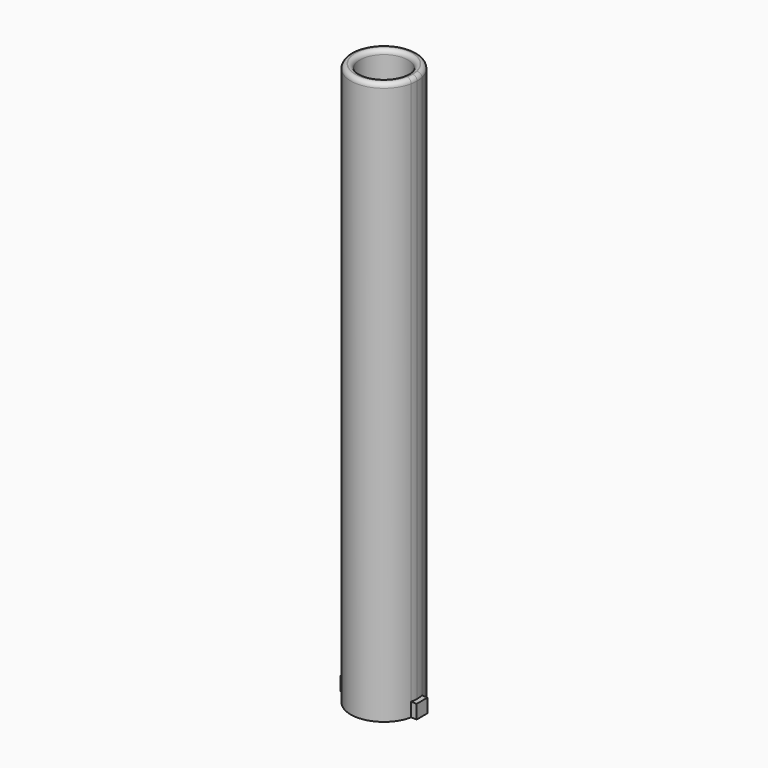
from build123d import *

# Parameters (mm, degrees)
F0_R     = 8.65
F1_DEPTH = 203.2
F2_R     = 1.6
F3_DEPTH = 5


with BuildPart() as f1:
    # F0 (on Top) → F1 (new body)
    with BuildSketch(Plane.XY):
        with BuildLine():
            Line((11.736521, -2.426381), (11.736521, 2.500816))
            ThreePointArc((11.736521, 2.500816), (0, 12), (-11.736521, 2.500816))
            Line((-11.736521, 2.500816), (-11.736521, -2.426381))
            Line((-11.736521, -2.426381), (-11.752135, -2.426381))
            ThreePointArc((-11.752135, -2.426381), (0, -12), (11.752135, -2.426381))
            Line((11.752135, -2.426381), (11.736521, -2.426381))
        make_face()
        Circle(F0_R, mode=Mode.SUBTRACT)
        with BuildLine():
            Line((-11.736521, -2.426381), (-11.736521, 2.500816))
            ThreePointArc((-11.736521, 2.500816), (-11.99994, 0.038028), (-11.752135, -2.426381))
            Line((-11.752135, -2.426381), (-11.736521, -2.426381))
        make_face()
        with BuildLine():
            ThreePointArc((11.752135, -2.426381), (11.937873, -1.219504), (12, 0))
            ThreePointArc((12, 0), (11.933948, 1.257329), (11.736521, 2.500816))
            Line((11.736521, 2.500816), (11.736521, -2.426381))
            Line((11.736521, -2.426381), (11.752135, -2.426381))
        make_face()
    extrude(amount=F1_DEPTH)

    # F2
    f2_edges = [f1.edges().sort_by_distance(p)[0] for p in [
        (-11.752135, 2.426381, 203.2),
        (-8.65, 0, 203.2),
    ]]
    fillet(f2_edges, radius=F2_R)

    # F0 (on Top) → F3 (join)
    with BuildSketch(Plane.XY):
        with BuildLine():
            ThreePointArc((11.736521, 2.500816), (11.933948, 1.257329), (12, 0))
            ThreePointArc((12, 0), (11.937873, -1.219504), (11.752135, -2.426381))
            Line((11.752135, -2.426381), (13.798083, -2.426381))
            Line((13.798083, -2.426381), (13.798083, 2.500816))
            Line((13.798083, 2.500816), (11.736521, 2.500816))
        make_face()
        with BuildLine():
            ThreePointArc((-11.752135, -2.426381), (-11.99994, 0.038028), (-11.736521, 2.500816))
            Line((-11.736521, 2.500816), (-13.798083, 2.500816))
            Line((-13.798083, 2.500816), (-13.798083, -2.426381))
            Line((-13.798083, -2.426381), (-11.752135, -2.426381))
        make_face()
    extrude(amount=F3_DEPTH)


solid = f1.part
